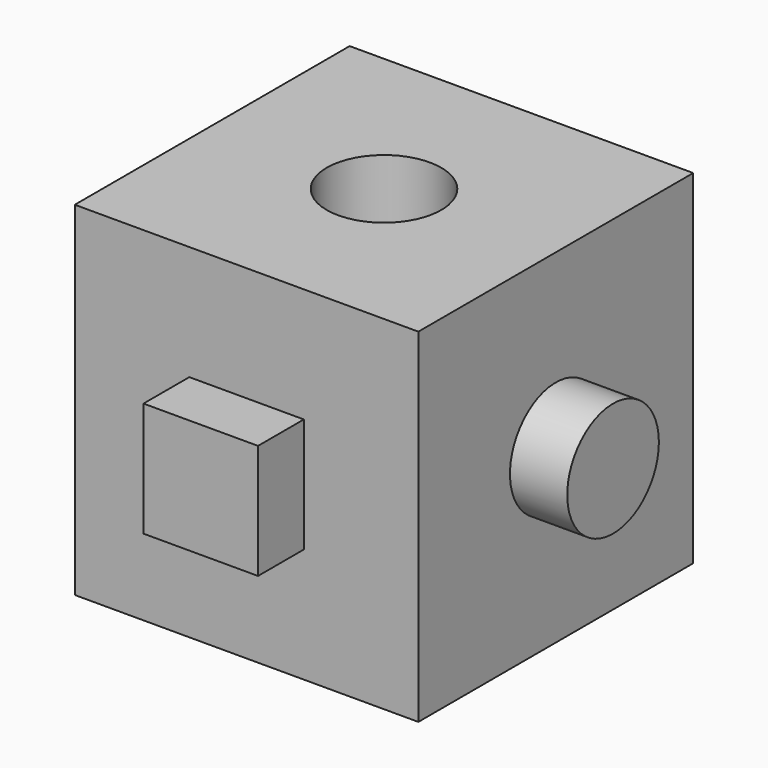
from build123d import *

# Parameters (mm, degrees)
F0_W     = 76.2
F0_H     = 76.2
F1_DEPTH = 76.2
F2_W     = 25.4
F2_H     = 25.4
F3_DEPTH = 12.7
F4_R     = 12.7
F5_DEPTH = 12.7
F7_D     = 25.4


with BuildPart() as f1:
    # F0 (on Front) → F1 (new body)
    with BuildSketch(Plane.XZ):
        with Locations((-38.1, 17.494382)):
            Rectangle(F0_W, F0_H)
    extrude(amount=F1_DEPTH)

    # F2 (on face) → F3 (join)
    with BuildSketch(Plane.XZ.offset(76.2)):
        with Locations((-38.1, 17.494382)):
            Rectangle(F2_W, F2_H)
    extrude(amount=F3_DEPTH)

    # F4 (on face) → F5 (join)
    with BuildSketch(Plane.YZ):
        with Locations((-38.1, 17.494382)):
            Circle(F4_R)
    extrude(amount=F5_DEPTH)

    # F7 (through all)
    with Locations(Plane.XY.offset(55.594382)):
        with Locations((-38.1, -38.1)):
            Hole(F7_D / 2)


solid = f1.part
